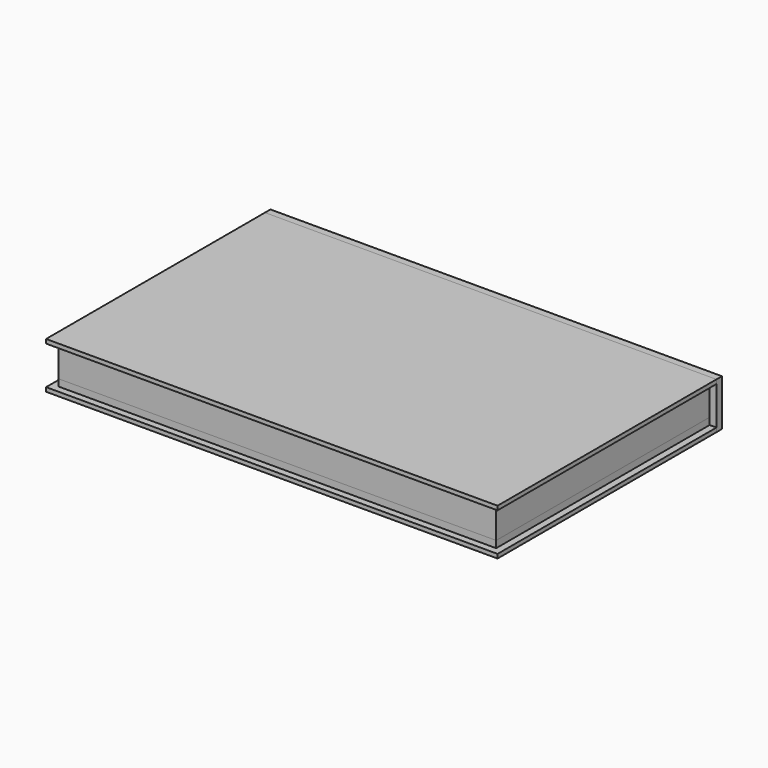
from build123d import *

# Parameters (mm, degrees)
F0_W      = 306
F0_H      = 180
F1_DEPTH  = 5
F2_W      = 320
F2_H      = 195
F3_DEPTH  = 5
F5_W      = 320
F5_H      = 195
F5_H_2    = 5
F6_DEPTH  = 3
F7_W      = 320
F7_H      = 195
F7_W_2    = 301
F7_H_2    = 175
F8_DEPTH  = 3
F9_W      = 320
F9_H      = 195
F10_DEPTH = 20
F11_W     = 320
F11_H     = 5
F11_H_2   = 195
F12_DEPTH = 3
F13_W     = 330
F13_H     = 34
F14_DEPTH = 5


with BuildPart() as f1:
    # F0 (on Top) → F1 (new body)
    with BuildSketch(Plane.XY):
        with Locations((153, 90)):
            Rectangle(F0_W, F0_H)
    extrude(amount=F1_DEPTH)


with BuildPart() as f3:
    # F2 (on Top) → F3 (new body)
    with BuildSketch(Plane.XY):
        with Locations((153, 90)):
            Rectangle(F2_W, F2_H)
    extrude(amount=F3_DEPTH)

    # F4: cut F1
    add(f1.part, mode=Mode.SUBTRACT)


with BuildPart() as f6:
    # F5 (on face) → F6 (new body)
    with BuildSketch(Plane(origin=(0, 0, 0), x_dir=(1, 0, 0), z_dir=(0, 0, -1))):
        with Locations((153, -90)):
            Rectangle(F5_W, F5_H)
        Polygon((313, 7.5), (313, -187.5), (318, -187.5), (318, 12.5), (313, 12.5), align=None)
        Polygon((-12, -187.5), (-7, -187.5), (-7, 7.5), (-7, 12.5), (-12, 12.5), align=None)
        with Locations((153, 10)):
            Rectangle(F5_W, F5_H_2)
    extrude(amount=F6_DEPTH)


with BuildPart() as f8:
    # F7 (on face) → F8 (new body)
    with BuildSketch(Plane.XY.offset(5)):
        with Locations((153, 90)):
            Rectangle(F7_W, F7_H)
        with Locations((153, 90)):
            Rectangle(F7_W_2, F7_H_2, mode=Mode.SUBTRACT)
    extrude(amount=F8_DEPTH)

    # F9 (on face) → F10 (join)
    with BuildSketch(Plane.XY.offset(8)):
        with Locations((153, 90)):
            Rectangle(F9_W, F9_H)
    extrude(amount=F10_DEPTH)


with BuildPart() as f12:
    # F11 (on face) → F12 (new body)
    with BuildSketch(Plane.XY.offset(28)):
        with Locations((153, -10)):
            Rectangle(F11_W, F11_H)
        with Locations((153, 90)):
            Rectangle(F11_W, F11_H_2)
        Polygon((313, 187.5), (313, -7.5), (313, -12.5), (318, -12.5), (318, 187.5), align=None)
        Polygon((-7, -12.5), (-7, -7.5), (-7, 187.5), (-12, 187.5), (-12, -12.5), align=None)
    extrude(amount=F12_DEPTH)


with BuildPart() as f14:
    # F13 (on face) → F14 (new body)
    with BuildSketch(Plane(origin=(0, 187.5, 0), x_dir=(-1, 0, 0), z_dir=(0, 1, 0))):
        with Locations((-153, 14)):
            Rectangle(F13_W, F13_H)
    extrude(amount=F14_DEPTH)


solid = Compound([f1.part, f3.part, f6.part, f8.part, f12.part, f14.part])
